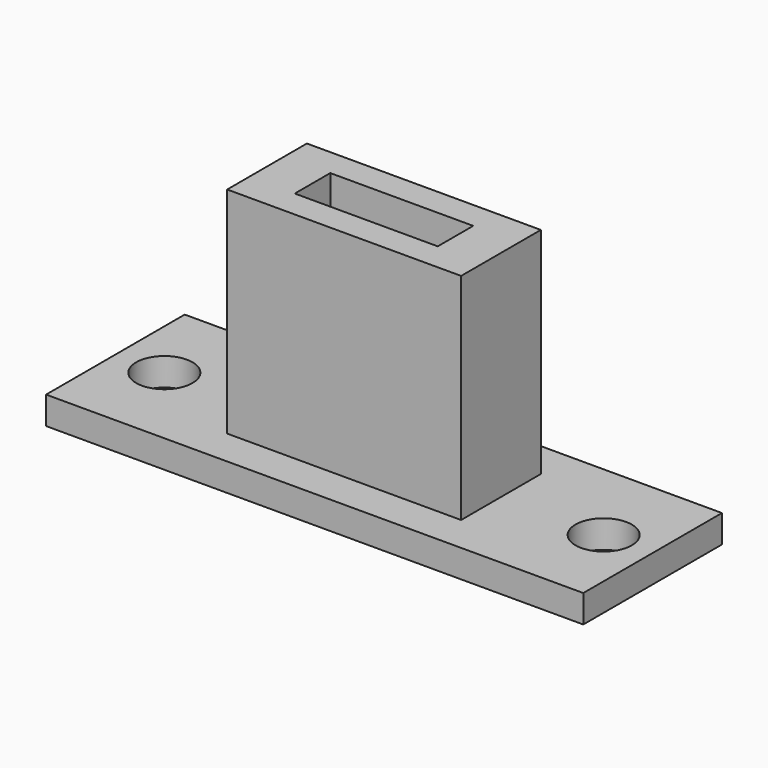
from build123d import *

# Parameters (mm, degrees)
SKETCH_W     = 31
SKETCH_H     = 10
SKETCH_R     = 1.625
PAD_DEPTH    = 1.6
SKETCH001_W  = 13.5
SKETCH001_H  = 5.75
PAD001_DEPTH = 12.4
SKETCH002_W  = 8.25
SKETCH002_H  = 2.56
POCKET_DEPTH = 14.001


with BuildPart() as part:
    # Sketch → Pad (new body)
    with BuildSketch(Plane.XY):
        Rectangle(SKETCH_W, SKETCH_H)
        with Locations((-12.675, 0)):
            Circle(SKETCH_R, mode=Mode.SUBTRACT)
        with Locations((12.675, 0)):
            Circle(SKETCH_R, mode=Mode.SUBTRACT)
    extrude(amount=PAD_DEPTH)

    # Sketch001 (on Face8 of Pad) → Pad001 (join)
    with BuildSketch(Plane.XY.offset(1.6)):
        Rectangle(SKETCH001_W, SKETCH001_H)
    extrude(amount=PAD001_DEPTH)

    # Sketch002 (on Face13 of Pad001) → Pocket (cut, through all)
    with BuildSketch(Plane.XY.offset(14)):
        Rectangle(SKETCH002_W, SKETCH002_H)
    extrude(amount=-POCKET_DEPTH, mode=Mode.SUBTRACT)


solid = part.part
